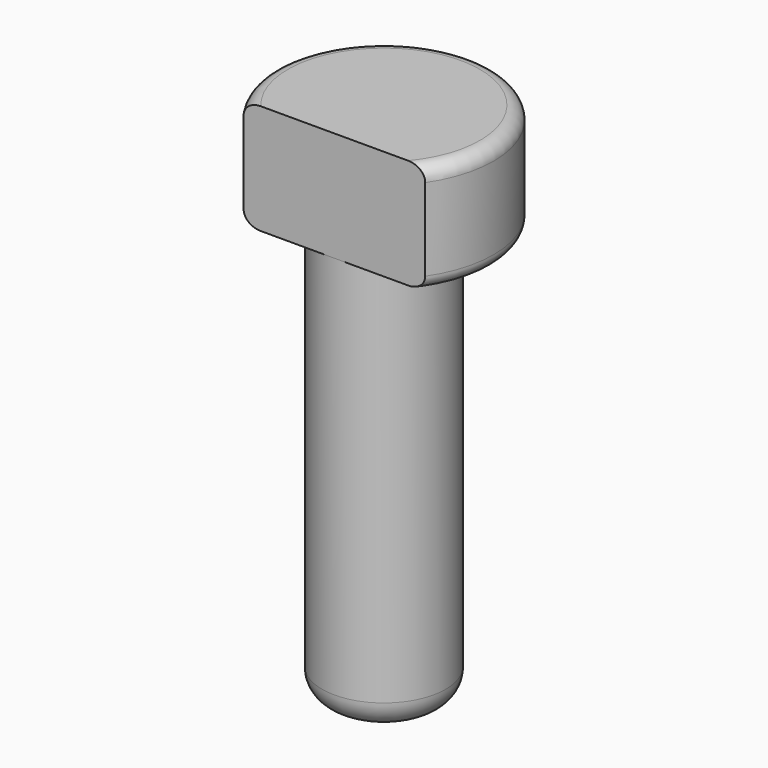
from build123d import *

# Parameters (mm, degrees)
F0_R     = 4
F1_DEPTH = 4
F2_R     = 2.25
F3_DEPTH = 15
F5_DEPTH = 4
F6_R     = 1
F7_R     = 0.5


with BuildPart() as f1:
    # F0 (on Top) → F1 (new body)
    with BuildSketch(Plane.XY):
        Circle(F0_R)
    extrude(amount=F1_DEPTH)

    # F2 (on face) → F3 (join)
    with BuildSketch(Plane(origin=(0, 0, 0), x_dir=(1, 0, 0), z_dir=(0, 0, -1))):
        Circle(F2_R)
    extrude(amount=F3_DEPTH)

    # F4 (on face) → F5 (cut)
    with BuildSketch(Plane.XY.offset(4)):
        Polygon((5.111386, -2.251241), (-4.930368, -2.251241), (-2.237212, -4.44078), (3.483612, -4.44078), align=None)
    extrude(amount=-F5_DEPTH, mode=Mode.SUBTRACT)

    # F6
    f6_edges = [f1.edges().sort_by_distance(p)[0] for p in [
        (-2.25, 0, -15),
    ]]
    fillet(f6_edges, radius=F6_R)

    # F7
    f7_edges = [f1.edges().sort_by_distance(p)[0] for p in [
        (0, 4, 0),
        (0, 4, 4),
    ]]
    fillet(f7_edges, radius=F7_R)


solid = f1.part
